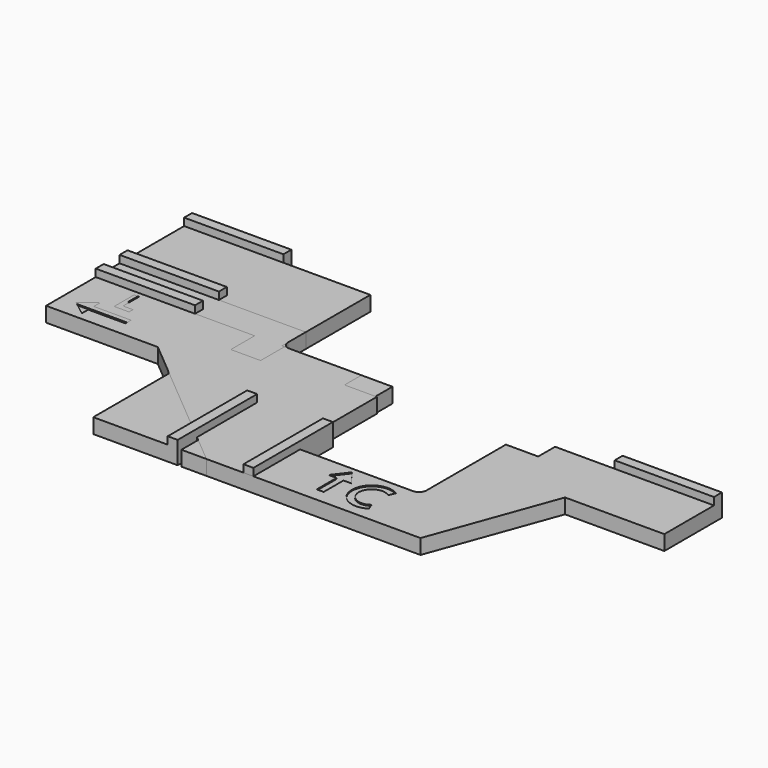
from build123d import *

# Parameters (mm, degrees)
PAD_DEPTH       = 6
SKETCH001_W     = 40
SKETCH001_H     = 4
SKETCH001_W_2   = 4
SKETCH001_H_2   = 40
PAD001_DEPTH    = 9
PAD002_DEPTH    = 6
SKETCH003_W     = 40
SKETCH003_H     = 4
SKETCH003_W_2   = 4
SKETCH003_H_2   = 40
PAD003_DEPTH    = 9
SKETCH004_R     = 1.768096
POCKET_DEPTH    = 0.4
PAD004_DEPTH    = 6
SKETCH007_W     = 40
SKETCH007_H     = 4
PAD005_DEPTH    = 9
POCKET001_DEPTH = 0.4


with BuildPart() as leftrightmotor:
    # Sketch → Pad (new body)
    with BuildSketch(Plane.XY):
        with BuildLine():
            Line((0, 119.5), (75, 119.5))
            Line((75, 119.5), (75, 78))
            ThreePointArc((75, 78), (75.87868, 75.87868), (78, 75))
            Line((78, 75), (119.5, 75))
            Line((119.5, 75), (119.5, 0))
            Line((119.5, 0), (94.5, 0))
            Line((94.5, 0), (94.5, 20))
            Line((94.5, 20), (20, 94.5))
            Line((0, 94.5), (20, 94.5))
            Line((0, 119.5), (0, 94.5))
        make_face()
    extrude(amount=PAD_DEPTH)

    # Sketch001 → Pad001 (join)
    with BuildSketch(Plane.XY):
        with Locations((20, 121.5)):
            Rectangle(SKETCH001_W, SKETCH001_H)
        with Locations((121.5, 20)):
            Rectangle(SKETCH001_W_2, SKETCH001_H_2)
    extrude(amount=PAD001_DEPTH)


with BuildPart() as cablecorner:
    # Sketch002 → Pad002 (new body)
    with BuildSketch(Plane.XY):
        Polygon((0, 87), (75, 87), (75, 75), (89, 75), (89, 0), (59, 0), (59, 38), (40, 57), (0, 57), align=None)
    extrude(amount=PAD002_DEPTH)

    # Sketch003 → Pad003 (join)
    with BuildSketch(Plane.XY):
        with Locations((20, 89)):
            Rectangle(SKETCH003_W, SKETCH003_H)
        with Locations((91, 20)):
            Rectangle(SKETCH003_W_2, SKETCH003_H_2)
    extrude(amount=PAD003_DEPTH)

    # Sketch004 (on Face3 of Pad003) → Pocket (cut)
    with BuildSketch(Plane.XY.offset(6)):
        Polygon((18.5, 68), (18.5, 77), (15.5, 77), (20, 82), (24.5, 77), (21.5, 77), (21.5, 68), align=None)
        with BuildLine():
            Line((30, 82), (30, 68))
            Line((30, 68), (32.8, 68))
            Line((32.8, 68), (32.8, 73.6))
            Line((32.8, 73.6), (35.6, 68))
            Line((35.6, 68), (38.4, 68))
            Line((38.4, 68), (35.6, 73.6))
            ThreePointArc((35.6, 73.6), (39.8, 77.8), (35.6, 82))
            Line((30, 82), (35.6, 82))
        make_face()
        with BuildLine():
            Line((35.6, 79.2), (32.8, 79.2))
            Line((32.8, 79.2), (32.8, 76.4))
            Line((32.8, 76.4), (35.6, 76.4))
            ThreePointArc((35.6, 76.4), (37, 77.8), (35.6, 79.2))
        make_face(mode=Mode.SUBTRACT)
        with BuildLine():
            ThreePointArc((45.339388, 70.4), (39.94105, 72.718594), (43.973586, 68.445822))
            Line((43.536822, 69.645822), (43.973586, 68.445822))
            ThreePointArc((40.736822, 70.4), (41.940153, 69.29275), (43.536822, 69.645822))
            Line((45.339388, 70.4), (40.736822, 70.4))
        make_face()
        with BuildLine():
            ThreePointArc((44.063178, 71.6), (42.4, 72.768096), (40.736822, 71.6))
            Line((44.063178, 71.6), (40.736822, 71.6))
        make_face(mode=Mode.SUBTRACT)
        with BuildLine():
            ThreePointArc((51.096663, 73.6), (46.6, 71), (51.096663, 68.4))
            Line((51.096663, 68.4), (51.096663, 68))
            Line((52.296663, 68), (51.096663, 68))
            Line((52.296663, 74), (52.296663, 68))
            Line((51.096663, 74), (52.296663, 74))
            Line((51.096663, 73.6), (51.096663, 74))
        make_face()
        with Locations((49.6, 71)):
            Circle(SKETCH004_R, mode=Mode.SUBTRACT)
        with BuildLine():
            Line((54.096663, 68), (54.096663, 74))
            Line((54.096663, 74), (55.296663, 74))
            Line((55.296663, 74), (55.296663, 73.6))
            ThreePointArc((59.138517, 72.87085), (57.352714, 73.947386), (55.296663, 73.6))
            Line((59.138517, 72.87085), (58.289989, 72.022322))
            ThreePointArc((58.289989, 72.022322), (56.793326, 72.812496), (55.296663, 72.022322))
            Line((55.296663, 68), (55.296663, 72.022322))
            Line((54.096663, 68), (55.296663, 68))
        make_face()
    extrude(amount=-POCKET_DEPTH, mode=Mode.SUBTRACT)


with BuildPart() as rearmotor:
    # Sketch006 → Pad004 (new body)
    with BuildSketch(Plane.XY):
        with BuildLine():
            Line((0, 75), (64, 75))
            Line((64, 75), (64, 63))
            Line((64, 63), (76, 63))
            Line((76, 63), (76, 75))
            Line((76, 75), (107, 75))
            Line((107, 75), (107, 66.5))
            Line((107, 66.5), (120, 66.5))
            Line((120, 66.5), (120, 26.5))
            ThreePointArc((120, 26.5), (120.87868, 24.37868), (123, 23.5))
            Line((123, 23.5), (169, 23.5))
            ThreePointArc((169, 23.5), (171.12132, 24.37868), (172, 26.5))
            Line((172, 26.5), (172, 66.5))
            Line((172, 66.5), (185, 66.5))
            Line((185, 66.5), (185, 75))
            Line((185, 75), (249, 75))
            Line((249, 75), (249, 50))
            Line((249, 50), (209, 50))
            Line((209, 50), (190.801488, 0))
            Line((190.801488, 0), (104.58768, 0))
            Line((104.58768, 0), (45, 50))
            Line((0, 50), (45, 50))
            Line((0, 50), (0, 75))
        make_face()
    extrude(amount=PAD004_DEPTH)

    # Sketch007 → Pad005 (join)
    with BuildSketch(Plane.XY):
        with Locations((20, 77)):
            Rectangle(SKETCH007_W, SKETCH007_H)
        with Locations((229, 77)):
            Rectangle(SKETCH007_W, SKETCH007_H)
    extrude(amount=PAD005_DEPTH)

    # Sketch008 (on Face2 of Pad005) → Pocket001 (cut)
    with BuildSketch(Plane.XY.offset(6)):
        Polygon((17, 73), (17, 63), (23, 63), (23, 65), (19, 65), (19, 73), align=None)
        Polygon((12, 62.2), (6, 57.6), (12, 53), (12, 56.2), (27, 56.2), (27, 59), (12, 59), align=None)
        Polygon((141.4, 15.5), (146, 21.5), (150.6, 15.5), (147.4, 15.5), (147.4, 5.5), (144.6, 5.5), (144.6, 15.5), align=None)
        with BuildLine():
            ThreePointArc((165.698397, 18.994263), (153.4, 12.247132), (165.698397, 5.5))
            Line((164.626883, 8.086863), (165.698397, 5.5))
            ThreePointArc((164.626883, 16.4074), (156.134963, 12.247132), (164.626883, 8.086863))
            Line((164.626883, 16.4074), (165.698397, 18.994263))
        make_face()
    extrude(amount=-POCKET001_DEPTH, mode=Mode.SUBTRACT)


solid = Compound([leftrightmotor.part, cablecorner.part, rearmotor.part])
